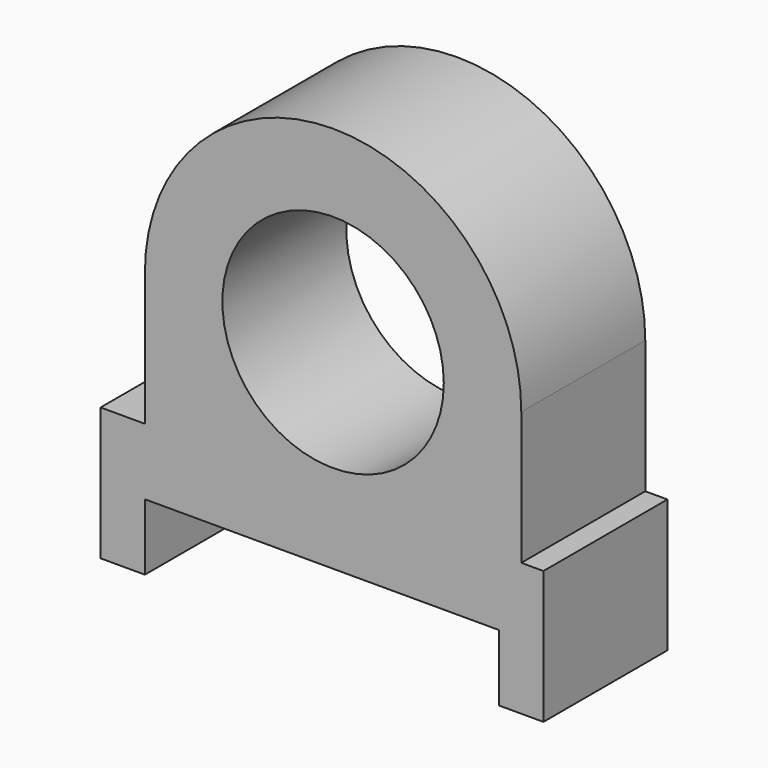
from build123d import *

# Parameters (mm, degrees)
F0_R     = 12.5
F1_DEPTH = 17.5


with BuildPart() as f1:
    # F0 (on Front) → F1 (new body)
    with BuildSketch(Plane.XZ):
        with BuildLine():
            Line((-5, 0), (0, 0))
            Line((0, 0), (0, 15))
            Line((0, 15), (-2.5, 15))
            Line((-2.5, 15), (-2.5, 30))
            ThreePointArc((-2.5, 30), (-23.75, 51.25), (-45, 30))
            Line((-45, 30), (-45, 15))
            Line((-45, 15), (-50, 15))
            Line((-50, 15), (-50, 0))
            Line((-50, 0), (-45, 0))
            Line((-45, 0), (-45, 7.5))
            Line((-45, 7.5), (-5, 7.5))
            Line((-5, 7.5), (-5, 0))
        make_face()
        with Locations((-23.75, 30)):
            Circle(F0_R, mode=Mode.SUBTRACT)
    extrude(amount=F1_DEPTH)


solid = f1.part
